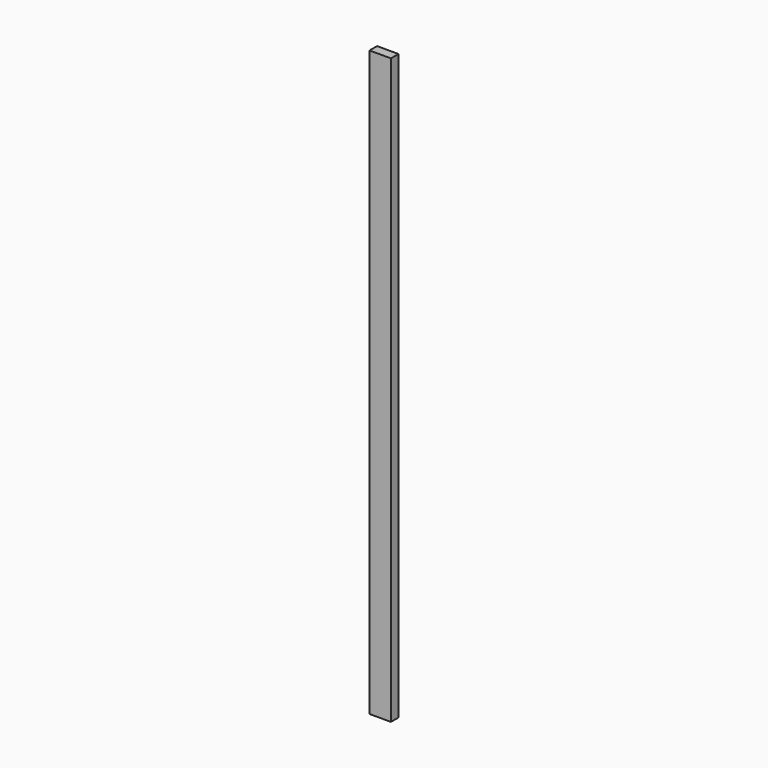
from build123d import *

# Parameters (mm, degrees)
F0_W     = 13.0043746904
F0_H     = 81.9757804275
F1_DEPTH = 50.8
F2_DEPTH = 101.6
F3_DEPTH = 3048


with BuildPart() as f1:
    # F0 (on Front) → F1 (new body)
    with BuildSketch(Plane.XZ):
        with Locations((-21.2537511252, -21.6252319515)):
            Rectangle(F0_W, F0_H)
    extrude(amount=F1_DEPTH)

    # F2 (add): a face of the model
    f2_faces = [f1.faces().sort_by_distance(p)[0] for p in [
        (-14.75156378, -25.4, -21.6252319515),
    ]]
    extrude(f2_faces, amount=F2_DEPTH)

    # F3 (add): a face of the model
    f3_faces = [f1.faces().sort_by_distance(p)[0] for p in [
        (29.5462488748, -25.4, 19.3626582623),
    ]]
    extrude(f3_faces, amount=F3_DEPTH)


solid = f1.part
